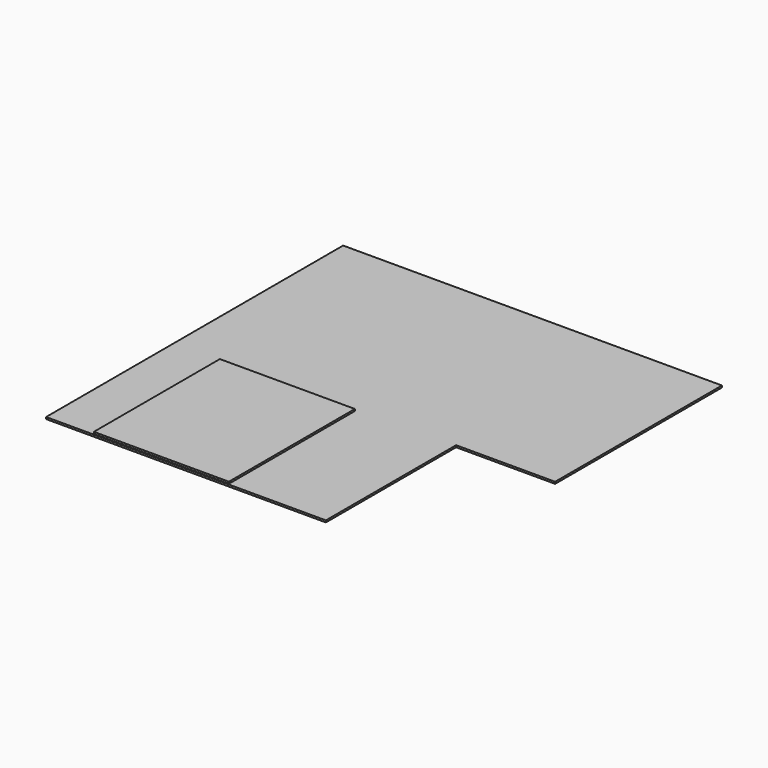
from build123d import *

# Parameters (mm, degrees)
F1_DEPTH = 25
F2_W     = 1416.956394
F2_H     = 2100
F2_W_2   = 383.043606
F3_DEPTH = 25


with BuildPart() as f1:
    # F0 (on Top) → F1 (new body)
    with BuildSketch(Plane.XY):
        Polygon((2519.166667, 145.699618), (2519.166667, 2925.699618), (-2530.833333, 2925.699618), (-2530.833333, -2024.300382), (1199.166667, -2024.300382), (1199.166667, 145.699618), align=None)
    extrude(amount=F1_DEPTH)


with BuildPart() as f3:
    # F2 (on face) → F3 (new body)
    with BuildSketch(Plane.XY.offset(25)):
        with Locations((-1822.355136, 737.92799)):
            Rectangle(F2_W, F2_H)
        with Locations((-2722.355136, 737.92799)):
            Rectangle(F2_W_2, F2_H)
    extrude(amount=F3_DEPTH)


with BuildPart() as f3_1:
    # F4: moved
    add(f3.part.moved(Location((1010, -1700, 0))))


solid = Compound([f1.part, f3_1.part])
